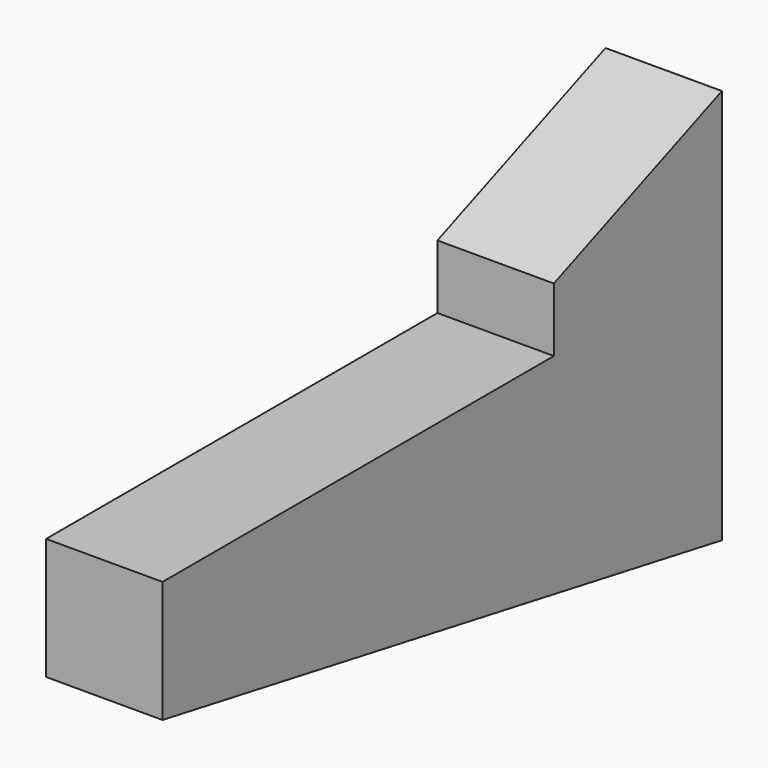
from build123d import *

# Parameters (mm, degrees)
F1_DEPTH = 25.4


with BuildPart() as f1:
    # F0 (on Right) → F1 (new body)
    with BuildSketch(Plane.YZ):
        Polygon((16.642717, 0), (-75.669996, 0), (-75.669996, -26.522875), (76.867461, -54.014966), (76.867461, -26.522875), (31.040281, 0), (25.836868, 0), (29.329389, -22.730291), align=None)
        Polygon((25.836868, 0), (16.642717, 0), (29.329389, -22.730291), align=None)
        Polygon((31.040281, 13.931453), (31.040281, 0), (76.867461, -26.522875), (76.867461, 32.262325), align=None)
    extrude(amount=F1_DEPTH)


solid = f1.part
